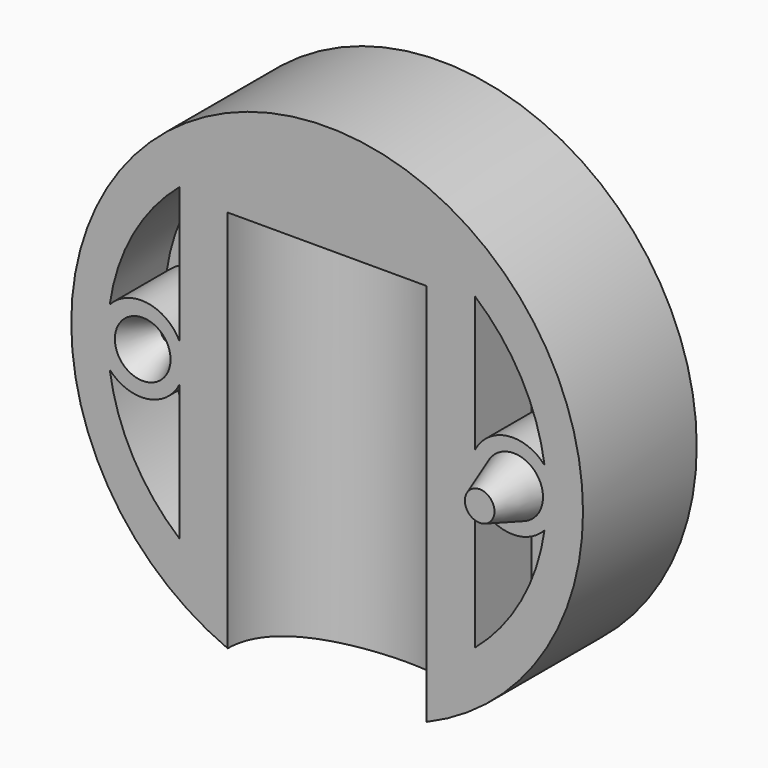
from build123d import *

# Parameters (mm, degrees)
F0_R      = 18
F1_DEPTH  = 10
F2_R      = 15.5
F3_DEPTH  = 2
F5_DEPTH  = 5
F6_R      = 3
F6_R_2    = 1.5
F7_DEPTH  = 5
F8_R      = 12.5
F9_DEPTH  = 3
F10_R     = 10.5
F11_DEPTH = 1.2
F16_W     = 7
F16_H     = 30.015691
F17_ANGLE = -180


with BuildPart() as f1:
    # F0 (on Front) → F1 (new body)
    with BuildSketch(Plane.XZ):
        Circle(F0_R)
    extrude(amount=-F1_DEPTH)

    # F2 (on face) → F3 (cut)
    with BuildSketch(Plane(origin=(0, 10, 0), x_dir=(-1, 0, 0), z_dir=(0, 1, 0))):
        Circle(F2_R)
    extrude(amount=-F3_DEPTH, mode=Mode.SUBTRACT)

    # F4 (on face) → F5 (cut)
    with BuildSketch(Plane.XZ):
        with BuildLine():
            ThreePointArc((10.390717, -10.885251), (15.434695, 0), (10.390717, 10.885251))
            Line((10.390717, 10.885251), (10.390717, -10.885251))
        make_face()
        with BuildLine():
            Line((-10.390717, -10.885251), (-10.390717, 10.885251))
            ThreePointArc((-10.390717, 10.885251), (-15.434695, 0), (-10.390717, -10.885251))
        make_face()
    extrude(amount=-F5_DEPTH, mode=Mode.SUBTRACT)

    # F6 (on face) → F7 (join)
    with BuildSketch(Plane.XZ.offset(-5)):
        with Locations((-13.069113, 0)):
            Circle(F6_R)
        with Locations((13.069113, 0)):
            Circle(F6_R)
        with Locations((13.069113, 0)):
            Circle(F6_R_2, mode=Mode.SUBTRACT)
    extrude(amount=F7_DEPTH)

    # F8 (on face) → F9 (join)
    with BuildSketch(Plane(origin=(0, 8, 0), x_dir=(-1, 0, 0), z_dir=(0, 1, 0))):
        Circle(F8_R)
    extrude(amount=F9_DEPTH)

    # F10 (on face) → F11 (cut)
    with BuildSketch(Plane(origin=(0, 11, 0), x_dir=(-1, 0, 0), z_dir=(0, 1, 0))):
        Circle(F10_R)
    extrude(amount=-F11_DEPTH, mode=Mode.SUBTRACT)

    # F12 (on Top) → F13 (revolve)
    with BuildSketch(Plane.XY):
        Polygon((13.131262, 0), (11.077145, 0), (12.089682, -3), (13.131262, -3), align=None)
    revolve(axis=Axis((13.131262, 2.278473, 0), (0, 1, 0)))

    # F14 (on Top) → F15 (revolve, cut)
    with BuildSketch(Plane.XY):
        Polygon((-13.759153, 2.54694), (-14.932801, 0), (-12.972816, 0), (-12.972816, 2.54694), align=None)
    revolve(axis=Axis((-12.972816, -1.87905, 0), (0, -1, 0)), mode=Mode.SUBTRACT)

    # F16 (on face) → F17 (revolve, cut)
    with BuildSketch(Plane.XZ):
        with Locations((3.5, -4.595023)):
            Rectangle(F16_W, F16_H)
        with Locations((3.5, -4.595023)):
            Rectangle(F16_W, F16_H)
    revolve(axis=Axis((0, 0, -3.36439), (0, 0, -1)), revolution_arc=F17_ANGLE, mode=Mode.SUBTRACT)


solid = f1.part
